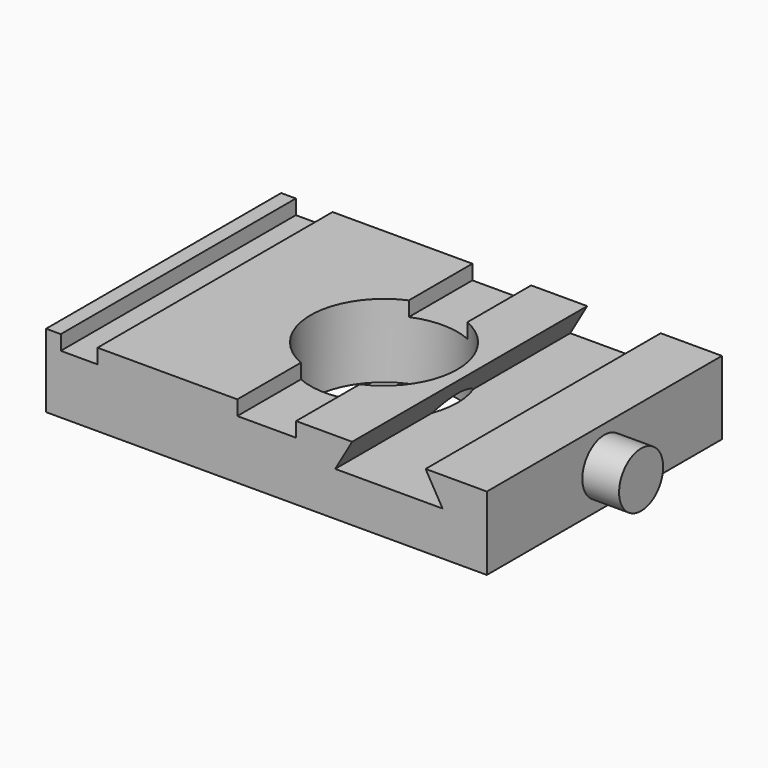
from build123d import *

# Parameters (mm, degrees)
F0_W     = 76.2
F0_H     = 50.8
F0_R     = 12.7
F1_DEPTH = 12.7
F2_W     = 6.35
F2_H     = 50.8
F3_DEPTH = 2.54
F5_DEPTH = 50.8
F6_R     = 4.7625
F7_DEPTH = 6.35


with BuildPart() as f1:
    # F0 (on Top) → F1 (new body)
    with BuildSketch(Plane.XY):
        Rectangle(F0_W, F0_H)
        Circle(F0_R, mode=Mode.SUBTRACT)
    extrude(amount=F1_DEPTH)

    # F2 (on face) → F3 (cut)
    with BuildSketch(Plane.XY.offset(12.7)):
        with Locations((-32.385, 0)):
            Rectangle(F2_W, F2_H)
        with BuildLine():
            Line((-5.039626, -11.65728), (-5.039626, -25.4))
            Line((-5.039626, -25.4), (5.120374, -25.4))
            Line((5.120374, -25.4), (5.120374, -11.622038))
            ThreePointArc((5.120374, -11.622038), (0.044052, -12.699924), (-5.039626, -11.65728))
        make_face()
        with BuildLine():
            Line((5.120374, 25.4), (-5.039626, 25.4))
            Line((-5.039626, 25.4), (-5.039626, 11.65728))
            ThreePointArc((-5.039626, 11.65728), (0.044052, 12.699924), (5.120374, 11.622038))
            Line((5.120374, 11.622038), (5.120374, 25.4))
        make_face()
        with BuildLine():
            Line((5.120374, 25.4), (-5.039626, 25.4))
            Line((-5.039626, 25.4), (-5.039626, 11.65728))
            ThreePointArc((-5.039626, 11.65728), (0.044052, 12.699924), (5.120374, 11.622038))
            Line((5.120374, 11.622038), (5.120374, 25.4))
        make_face()
    extrude(amount=-F3_DEPTH, mode=Mode.SUBTRACT)

    # F4 (on face) → F5 (cut, through all)
    with BuildSketch(Plane.XZ.offset(25.4)):
        Polygon((27.512688, 12.7), (14.812688, 12.7), (11.879749, 7.62), (30.445627, 7.62), align=None)
    extrude(amount=-F5_DEPTH, mode=Mode.SUBTRACT)

    # F6 (on face) → F7 (join)
    with BuildSketch(Plane.YZ.offset(38.1)):
        with Locations((0, 6.243965)):
            Circle(F6_R)
    extrude(amount=F7_DEPTH)


solid = f1.part
